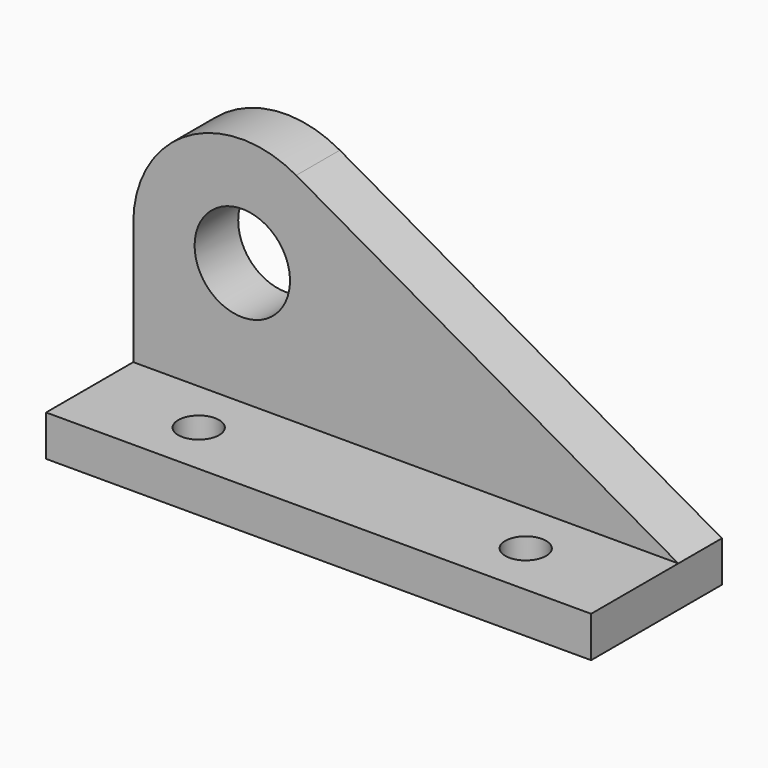
from build123d import *

# Parameters (mm, degrees)
F0_W     = 127
F0_H     = 9.525
F1_DEPTH = 19.05
F3_DEPTH = 12.7
F5_D     = 22.225
F7_D     = 9.525


with BuildPart() as f1:
    # F0 (on Front) → F1 (new body, symmetric)
    with BuildSketch(Plane.XZ):
        Rectangle(F0_W, F0_H)
    extrude(amount=F1_DEPTH, both=True)

    # F2 (on face) → F3 (join)
    with BuildSketch(Plane(origin=(0, 19.05, 0), x_dir=(-1, 0, 0), z_dir=(0, 1, 0))):
        with BuildLine():
            Line((38.1, 4.7625), (63.5, 4.7625))
            Line((63.5, 4.7625), (63.5, 33.3375))
            ThreePointArc((63.5, 33.3375), (50.870136, 55.293903), (25.540659, 55.415157))
            Line((25.540659, 55.415157), (-63.5, 4.7625))
            Line((-63.5, 4.7625), (38.1, 4.7625))
        make_face()
    extrude(amount=-F3_DEPTH)

    # F5 (through all)
    with Locations(Plane.XZ.offset(-6.35)):
        with Locations((-38.1, 33.3375)):
            Hole(F5_D / 2)

    # F7 (through all)
    with Locations(Plane.XY.offset(4.7625)):
        with Locations((-38.1, -6.35), (38.1, -6.35)):
            Hole(F7_D / 2)


solid = f1.part
